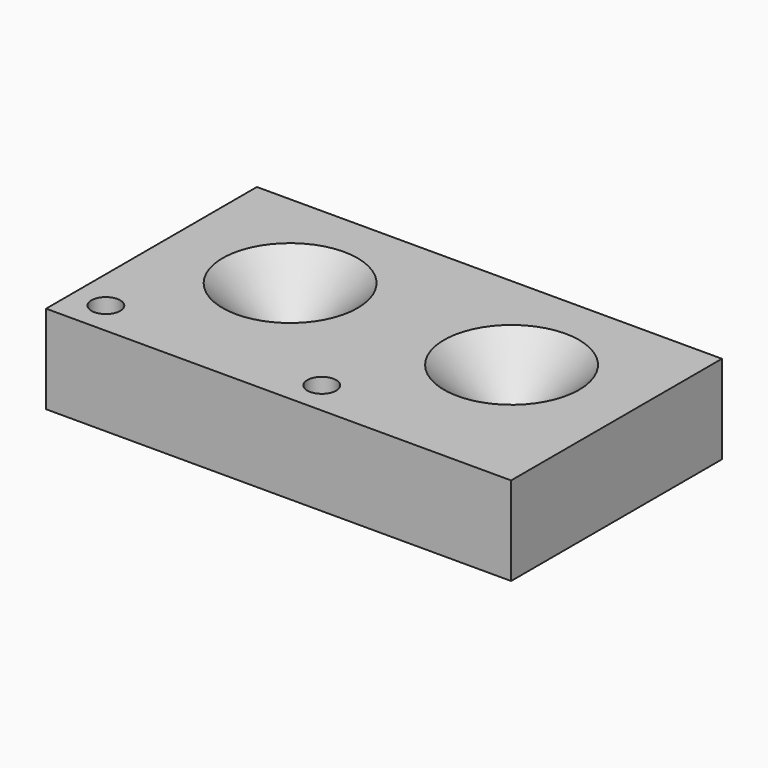
from build123d import *

# Parameters (mm, degrees)
SKETCH030_W     = 42
SKETCH030_H     = 23.8
PAD019_DEPTH    = 8
SKETCH032_R     = 1.6
SKETCH032_R_2   = 1.3
POCKET010_DEPTH = 8.001
CHAMFER002_SIZE = 4.5


with BuildPart() as part:
    # Sketch030 → Pad019 (new body)
    with BuildSketch(Plane.XY):
        with Locations((21, 11.9)):
            Rectangle(SKETCH030_W, SKETCH030_H)
    extrude(amount=PAD019_DEPTH)

    # Sketch032 (on Face6 of Pad019) → Pocket010 (cut, through all)
    with BuildSketch(Plane.XY.offset(8)):
        with Locations((11, 13.8)):
            Circle(SKETCH032_R)
        with Locations((31, 13.8)):
            Circle(SKETCH032_R)
        with Locations((3, 3)):
            Circle(SKETCH032_R_2)
        with Locations((22.5, 3)):
            Circle(SKETCH032_R_2)
    extrude(amount=-POCKET010_DEPTH, mode=Mode.SUBTRACT)

    # Chamfer002
    chamfer002_edges = [part.edges().sort_by_distance(p)[0] for p in [
        (9.4, 13.8, 8),
        (29.4, 13.8, 8),
    ]]
    chamfer(chamfer002_edges, length=CHAMFER002_SIZE)


solid = part.part
